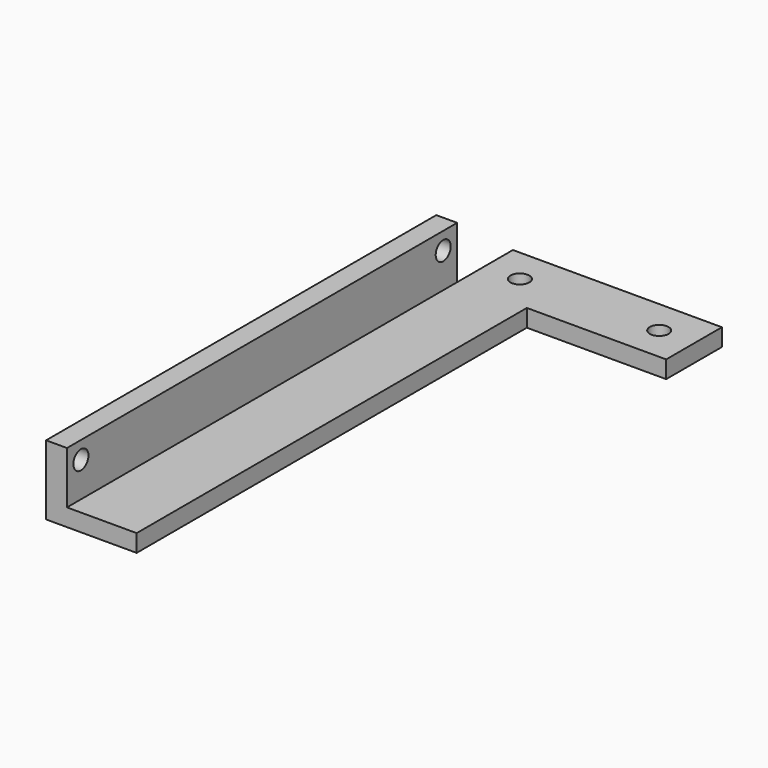
from build123d import *

# Parameters (mm, degrees)
F0_R     = 1.35
F1_DEPTH = 2.5
F0_W     = 3
F0_H     = 70
F2_DEPTH = 10
F3_R     = 1.35
F4_DEPTH = 3.001


with BuildPart() as f1:
    # F0 (on Top) → F1 (new body)
    with BuildSketch(Plane.XY):
        Polygon((19.589888, 61.650399), (19.589888, 71.650399), (-10.410112, 71.650399), (-10.410112, 61.650399), (-10.410112, -8.349601), (-0.410112, -8.349601), (-0.410112, 61.650399), align=None)
        with Locations((-5.410112, 66.650399)):
            Circle(F0_R, mode=Mode.SUBTRACT)
        with Locations((14.589888, 66.650399)):
            Circle(F0_R, mode=Mode.SUBTRACT)
    extrude(amount=F1_DEPTH)

    # F0 (on Top) → F2 (join)
    with BuildSketch(Plane.XY):
        with Locations((-11.910112, 26.650399)):
            Rectangle(F0_W, F0_H)
    extrude(amount=F2_DEPTH)

    # F3 (on face) → F4 (cut, through all)
    with BuildSketch(Plane.YZ.offset(-10.410112)):
        with Locations((-5.849601, 7.5)):
            Circle(F3_R)
        with Locations((59.150399, 7.5)):
            Circle(F3_R)
    extrude(amount=-F4_DEPTH, mode=Mode.SUBTRACT)


solid = f1.part
